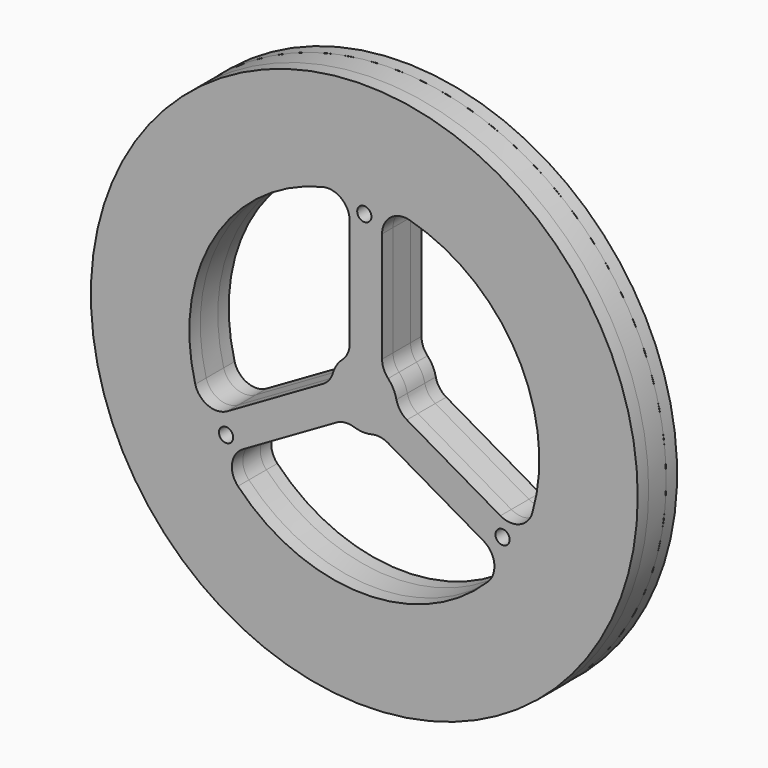
from build123d import *

# Parameters (mm, degrees)
F0_R     = 63.5
F0_R_2   = 9.525
F0_R_3   = 1.65
F1_DEPTH = 5.08
F2_R     = 1.5875
F3_DEPTH = 25.4
F4_R     = 5.08
F5_R     = 63.5
F5_R_2   = 1.65
F6_DEPTH = 3.175
F7_R     = 63.5
F7_R_2   = 1.25
F7_R_3   = 1.65
F8_DEPTH = 3.175


with BuildPart() as f1:
    # F0 (on Front) → F1 (new body)
    with BuildSketch(Plane.XZ):
        Circle(F0_R)
        with Locations((-26.035, -45.093943)):
            Circle(F0_R_2, mode=Mode.SUBTRACT)
        with Locations((-45.093943, -26.035)):
            Circle(F0_R_2, mode=Mode.SUBTRACT)
        with Locations((0, -52.07)):
            Circle(F0_R_2, mode=Mode.SUBTRACT)
        with Locations((26.035, -45.093943)):
            Circle(F0_R_2, mode=Mode.SUBTRACT)
        with Locations((45.093943, -26.035)):
            Circle(F0_R_2, mode=Mode.SUBTRACT)
        with Locations((-52.07, 0)):
            Circle(F0_R_2, mode=Mode.SUBTRACT)
        with Locations((-45.093943, 26.035)):
            Circle(F0_R_2, mode=Mode.SUBTRACT)
        with Locations((-26.035, 45.093943)):
            Circle(F0_R_2, mode=Mode.SUBTRACT)
        with BuildLine():
            ThreePointArc((4.131042, 40.429495), (30.162022, 27.237144), (40.64, 0))
            ThreePointArc((40.64, 0), (39.659988, -8.871019), (36.767216, -17.314198))
            ThreePointArc((36.767216, -17.314198), (35.007502, -20.641812), (32.947449, -23.792335))
            ThreePointArc((32.947449, -23.792335), (-0.372583, -40.638292), (-33.378143, -23.184244))
            ThreePointArc((-33.378143, -23.184244), (-35.380085, -19.99648), (-37.078491, -16.63716))
            ThreePointArc((-37.078491, -16.63716), (-35.007502, 20.641812), (-3.389073, 40.498442))
            ThreePointArc((-3.389073, 40.498442), (0.372583, 40.638292), (4.131042, 40.429495))
        make_face(mode=Mode.SUBTRACT)
        with Locations((52.07, 0)):
            Circle(F0_R_2, mode=Mode.SUBTRACT)
        with Locations((45.093943, 26.035)):
            Circle(F0_R_2, mode=Mode.SUBTRACT)
        with Locations((26.035, 45.093943)):
            Circle(F0_R_2, mode=Mode.SUBTRACT)
        with Locations((0, 52.07)):
            Circle(F0_R_2, mode=Mode.SUBTRACT)
        with BuildLine():
            Line((4.131042, 6.403038), (4.131042, 40.429495))
            ThreePointArc((4.131042, 40.429495), (0.372583, 40.638292), (-3.389073, 40.498442))
            Line((-3.389073, 40.498442), (-3.389073, 14.423836))
            Line((-3.389073, 14.423836), (-3.389073, 6.824851))
            ThreePointArc((-3.389073, 6.824851), (0.426745, 7.608041), (4.131042, 6.403038))
        make_face()
        with Locations((0, 37.072029)):
            Circle(F0_R_3, mode=Mode.SUBTRACT)
        with BuildLine():
            ThreePointArc((7.62, 0), (6.691149, 3.645947), (4.131042, 6.403038))
            ThreePointArc((4.131042, 6.403038), (0.426745, 7.608041), (-3.389073, 6.824851))
            ThreePointArc((-3.389073, 6.824851), (-6.375384, 4.173592), (-7.610714, 0.376068))
            ThreePointArc((-7.610714, 0.376068), (-6.802129, -3.434449), (-4.215958, -6.347448))
            ThreePointArc((-4.215958, -6.347448), (-0.426745, -7.608041), (3.479672, -6.779106))
            ThreePointArc((3.479672, -6.779106), (6.375384, -4.173592), (7.60503, -0.477402))
            ThreePointArc((7.60503, -0.477402), (7.616257, -0.238819), (7.62, 0))
        make_face()
        with BuildLine():
            Line((-7.610714, 0.376068), (-37.078491, -16.63716))
            ThreePointArc((-37.078491, -16.63716), (-35.380085, -19.99648), (-33.378143, -23.184244))
            Line((-33.378143, -23.184244), (-4.215958, -6.347448))
            ThreePointArc((-4.215958, -6.347448), (-6.802129, -3.434449), (-7.610714, 0.376068))
        make_face()
        with Locations((-32.105319, -18.536014)):
            Circle(F0_R_3, mode=Mode.SUBTRACT)
        with BuildLine():
            ThreePointArc((32.947449, -23.792335), (35.007502, -20.641812), (36.767216, -17.314198))
            Line((36.767216, -17.314198), (7.60503, -0.477402))
            ThreePointArc((7.60503, -0.477402), (6.375384, -4.173592), (3.479672, -6.779106))
            Line((3.479672, -6.779106), (32.947449, -23.792335))
        make_face()
        with Locations((32.105319, -18.536014)):
            Circle(F0_R_3, mode=Mode.SUBTRACT)
        with BuildLine():
            Line((4.131042, 6.403038), (4.131042, 40.429495))
            ThreePointArc((4.131042, 40.429495), (0.372583, 40.638292), (-3.389073, 40.498442))
            Line((-3.389073, 40.498442), (-3.389073, 14.423836))
            Line((-3.389073, 14.423836), (-3.389073, 6.824851))
            ThreePointArc((-3.389073, 6.824851), (0.426745, 7.608041), (4.131042, 6.403038))
        make_face()
        with Locations((0, 37.072029)):
            Circle(F0_R_3, mode=Mode.SUBTRACT)
    extrude(amount=F1_DEPTH)

    # F2 (on face) → F3 (cut)
    with BuildSketch(Plane.XZ.offset(5.08)):
        Circle(F2_R)
    extrude(amount=-F3_DEPTH, mode=Mode.SUBTRACT)

    # F4
    f4_edges = [f1.edges().sort_by_distance(p)[0] for p in [
        (-37.078491, -2.54, -16.63716),
        (-3.389073, -2.54, 40.498442),
        (-7.610714, -2.54, 0.376068),
        (-3.389073, -2.54, 6.824851),
        (-33.378143, -2.54, -23.184244),
        (-4.215958, -2.54, -6.347448),
        (3.479672, -2.54, -6.779106),
        (32.947449, -2.54, -23.792335),
        (36.767216, -2.54, -17.314198),
        (4.131042, -2.54, 6.403038),
        (7.60503, -2.54, -0.477402),
        (4.131042, -2.54, 40.429495),
    ]]
    fillet(f4_edges, radius=F4_R)


with BuildPart() as f6:
    # F5 (on face) → F6 (new body)
    with BuildSketch(Plane.XZ.offset(5.08)):
        Circle(F5_R)
        with Locations((-32.105319, -18.536014)):
            Circle(F5_R_2, mode=Mode.SUBTRACT)
        with BuildLine():
            ThreePointArc((1.779881, -7.409212), (3.695063, -7.321207), (5.506469, -7.949278))
            Line((5.506469, -7.949278), (27.679272, -20.750752))
            ThreePointArc((27.679272, -20.750752), (30.175884, -24.487633), (28.730597, -28.743041))
            ThreePointArc((28.730597, -28.743041), (-0.437725, -40.637643), (-29.343066, -28.117505))
            ThreePointArc((-29.343066, -28.117505), (-30.704367, -23.886079), (-28.215183, -20.203407))
            Line((-28.215183, -20.203407), (-6.501414, -7.666957))
            ThreePointArc((-6.501414, -7.666957), (-4.484697, -7.01339), (-2.376849, -7.23982))
            ThreePointArc((-2.376849, -7.23982), (-0.310267, -7.613681), (1.779881, -7.409212))
        make_face(mode=Mode.SUBTRACT)
        with Locations((32.105319, -18.536014)):
            Circle(F5_R_2, mode=Mode.SUBTRACT)
        with BuildLine():
            ThreePointArc((-39.257502, -10.509906), (-34.974368, 20.697903), (-9.67894, 39.470593))
            ThreePointArc((-9.67894, 39.470593), (-5.333768, 38.533801), (-3.389073, 34.536769))
            Line((-3.389073, 34.536769), (-3.389073, 9.463869))
            ThreePointArc((-3.389073, 9.463869), (-3.831425, 7.390557), (-5.081444, 5.678321))
            ThreePointArc((-5.081444, 5.678321), (-6.438507, 4.07554), (-7.306506, 2.163184))
            ThreePointArc((-7.306506, 2.163184), (-8.187883, 0.460585), (-9.637511, -0.794103))
            Line((-9.637511, -0.794103), (-31.810314, -13.595577))
            ThreePointArc((-31.810314, -13.595577), (-36.294854, -13.889266), (-39.257502, -10.509906))
        make_face(mode=Mode.SUBTRACT)
        with BuildLine():
            Line((31.604256, -14.333362), (9.890487, -1.796911))
            ThreePointArc((9.890487, -1.796911), (8.316122, -0.377167), (7.458292, 1.561499))
            ThreePointArc((7.458292, 1.561499), (6.748775, 3.538141), (5.526625, 5.246028))
            ThreePointArc((5.526625, 5.246028), (4.49282, 6.860622), (4.131042, 8.743381))
            Line((4.131042, 8.743381), (4.131042, 34.346329))
            ThreePointArc((4.131042, 34.346329), (6.11897, 38.376899), (10.526905, 39.252947))
            ThreePointArc((10.526905, 39.252947), (35.412094, 19.93974), (39.022006, -11.353089))
            ThreePointArc((39.022006, -11.353089), (36.038134, -14.647722), (31.604256, -14.333362))
        make_face(mode=Mode.SUBTRACT)
        with Locations((0, 37.072029)):
            Circle(F5_R_2, mode=Mode.SUBTRACT)
    extrude(amount=F6_DEPTH)


with BuildPart() as f8:
    # F7 (on face) → F8 (new body)
    with BuildSketch(Plane(origin=(0, 0, 0), x_dir=(-1, 0, 0), z_dir=(0, 1, 0))):
        Circle(F7_R)
        with Locations((-32.105319, -18.536014)):
            Circle(F7_R_2, mode=Mode.SUBTRACT)
        with BuildLine():
            Line((-27.679272, -20.750752), (-5.506469, -7.949278))
            ThreePointArc((-5.506469, -7.949278), (-3.695063, -7.321207), (-1.779881, -7.409212))
            ThreePointArc((-1.779881, -7.409212), (0.310267, -7.613681), (2.376849, -7.23982))
            ThreePointArc((2.376849, -7.23982), (4.484697, -7.01339), (6.501414, -7.666957))
            Line((6.501414, -7.666957), (28.215183, -20.203407))
            ThreePointArc((28.215183, -20.203407), (30.704367, -23.886079), (29.343066, -28.117505))
            ThreePointArc((29.343066, -28.117505), (0.437725, -40.637643), (-28.730597, -28.743041))
            ThreePointArc((-28.730597, -28.743041), (-30.175884, -24.487633), (-27.679272, -20.750752))
        make_face(mode=Mode.SUBTRACT)
        with BuildLine():
            Line((-4.131042, 34.346329), (-4.131042, 8.743381))
            ThreePointArc((-4.131042, 8.743381), (-4.49282, 6.860622), (-5.526625, 5.246028))
            ThreePointArc((-5.526625, 5.246028), (-6.748775, 3.538141), (-7.458292, 1.561499))
            ThreePointArc((-7.458292, 1.561499), (-8.316122, -0.377167), (-9.890487, -1.796911))
            Line((-9.890487, -1.796911), (-31.604256, -14.333362))
            ThreePointArc((-31.604256, -14.333362), (-36.038134, -14.647722), (-39.022006, -11.353089))
            ThreePointArc((-39.022006, -11.353089), (-35.412094, 19.93974), (-10.526905, 39.252947))
            ThreePointArc((-10.526905, 39.252947), (-6.11897, 38.376899), (-4.131042, 34.346329))
        make_face(mode=Mode.SUBTRACT)
        with BuildLine():
            ThreePointArc((5.081444, 5.678321), (3.831425, 7.390557), (3.389073, 9.463869))
            Line((3.389073, 9.463869), (3.389073, 34.536769))
            ThreePointArc((3.389073, 34.536769), (5.333768, 38.533801), (9.67894, 39.470593))
            ThreePointArc((9.67894, 39.470593), (34.974368, 20.697903), (39.257502, -10.509906))
            ThreePointArc((39.257502, -10.509906), (36.294854, -13.889266), (31.810314, -13.595577))
            Line((31.810314, -13.595577), (9.637511, -0.794103))
            ThreePointArc((9.637511, -0.794103), (8.187883, 0.460585), (7.306506, 2.163184))
            ThreePointArc((7.306506, 2.163184), (6.438507, 4.07554), (5.081444, 5.678321))
        make_face(mode=Mode.SUBTRACT)
        with Locations((0, 37.072029)):
            Circle(F7_R_3, mode=Mode.SUBTRACT)
    extrude(amount=F8_DEPTH)


solid = Compound([f1.part, f6.part, f8.part])
